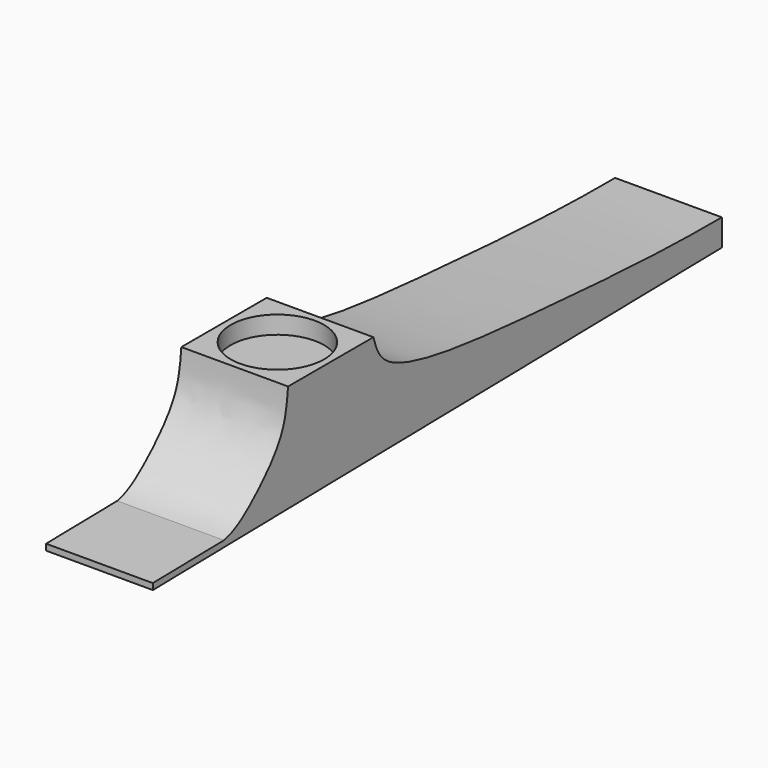
from build123d import *

# Parameters (mm, degrees)
F1_DEPTH = 12
F2_R     = 5.25
F3_DEPTH = 2


with BuildPart() as f1:
    # F0 (on Right) → F1 (new body)
    with BuildSketch(Plane.YZ):
        with BuildLine():
            Line((6, 0), (-6, 0))
            add(Edge.make_bspline(
                [(-15.0137397329, -11.5619591722), (-13.5906271424, -11.2964920093), (-10.7601897079, -9.2903086336), (-6.4181021832, -4.7073575718), (-6.1370336878, -1.4182246783), (-6, 0)],
                knots=[0, 0, 0, 0, 0.3207224524, 0.6871017532, 1, 1, 1, 1], degree=3))
            Line((-15.0137397329, -11.5619591722), (-25.0122166845, -11.7364832366))
            Line((-25.0122166845, -11.7364832366), (-25, -12.4363766232))
            Line((-25, -12.4363766232), (54.9878156125, -11.0401841082))
            Line((54.9878156125, -11.0401841082), (54.9748430875, -8.0402121561))
            add(Edge.make_bspline(
                [(6, 0), (6.3458147236, -1.1588554342), (7.4985462399, -5.0603049881), (30.6654186689, -7.0675654114), (46.5840497498, -8.0880688799), (54.9748430875, -8.0402121561)],
                knots=[0, 0, 0, 0, 0.1686157391, 0.5621249017, 1, 1, 1, 1], degree=3))
        make_face()
    extrude(amount=F1_DEPTH)

    # F2 (on face) → F3 (cut)
    with BuildSketch(Plane.XY):
        with Locations((6, 0)):
            Circle(F2_R)
    extrude(amount=-F3_DEPTH, mode=Mode.SUBTRACT)


solid = f1.part
